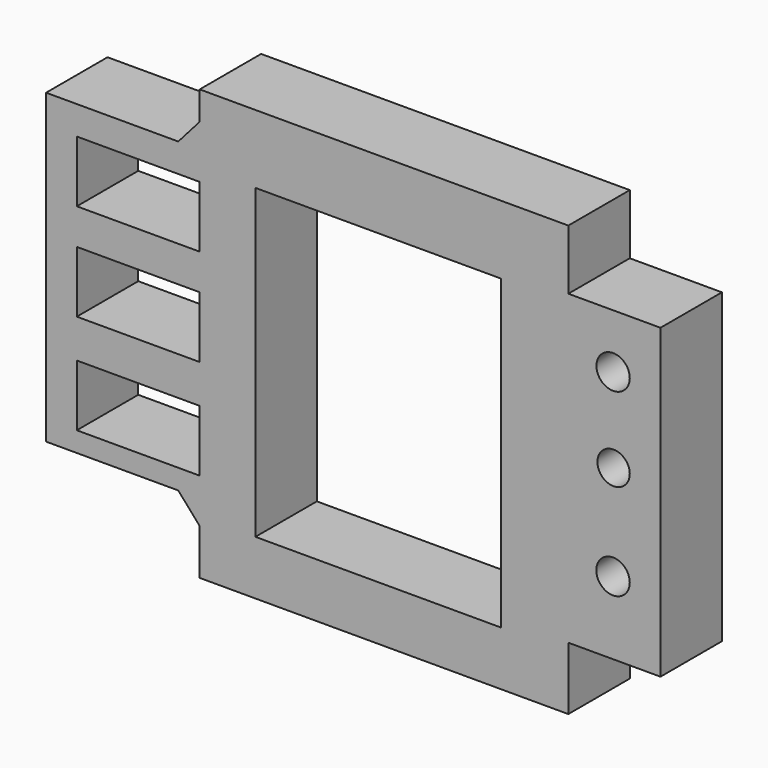
from build123d import *

# Parameters (mm, degrees)
F0_W     = 40
F0_H     = 20
F0_W_2   = 80
F0_H_2   = 100
F0_R     = 5.444049
F0_H_3   = 20.000004
F0_R_2   = 5.262192
F0_R_3   = 5.424143
F1_DEPTH = 25


with BuildPart() as f1:
    # F0 (on Front) → F1 (new body)
    with BuildSketch(Plane.XZ):
        Polygon((-162.994809, -39.040719), (-162.994809, -53.924445), (-42.994809, -53.924445), (-42.994809, -33.45933), (-12.994809, -33.45933), (-12.994809, 66.540668), (-42.994809, 66.540668), (-42.994809, 86.075555), (-162.994809, 86.075555), (-162.994809, 76.773231), (-169.971554, 68.866255), (-212.994809, 68.866255), (-212.994809, -31.133745), (-169.971554, -31.133745), align=None)
        with Locations((-182.994809, -14.622118)):
            Rectangle(F0_W, F0_H, mode=Mode.SUBTRACT)
        with Locations((-104.85527, 13.749972)):
            Rectangle(F0_W_2, F0_H_2, mode=Mode.SUBTRACT)
        with Locations((-28.438857, -9.738397)):
            Circle(F0_R, mode=Mode.SUBTRACT)
        Polygon((-202.994809, 7.936021), (-202.994809, 27.936022), (-175.087825, 27.936022), (-162.994809, 27.936022), (-162.994809, 7.936021), (-175.087825, 7.936021), align=None, mode=Mode.SUBTRACT)
        with Locations((-182.994809, 49.563928)):
            Rectangle(F0_W, F0_H_3, mode=Mode.SUBTRACT)
        with Locations((-28.257, 21.424393)):
            Circle(F0_R_2, mode=Mode.SUBTRACT)
        with Locations((-28.418952, 48.866255)):
            Circle(F0_R_3, mode=Mode.SUBTRACT)
    extrude(amount=F1_DEPTH)


solid = f1.part
